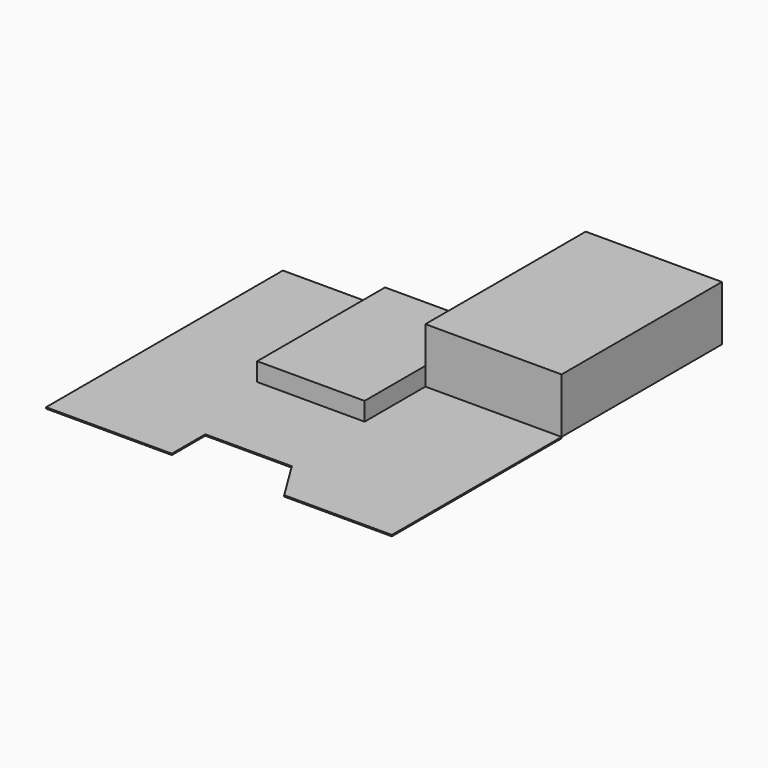
from build123d import *

# Parameters (mm, degrees)
F1_W     = 2050
F1_H     = 3050
F2_DEPTH = 350
F3_W     = 2600
F3_H     = 3825.0252531694
F4_DEPTH = 1050
F6_DEPTH = 25


with BuildPart() as f2:
    # F1 (on Top) → F2 (new body)
    with BuildSketch(Plane.XY):
        with Locations((2975, -7645)):
            Rectangle(F1_W, F1_H)
    extrude(amount=F2_DEPTH)

    # F3 (on Top) → F4 (join)
    with BuildSketch(Plane.XY):
        with Locations((5300, -5807.4873734153)):
            Rectangle(F3_W, F3_H)
    extrude(amount=F4_DEPTH)

    # F5 (on Top) → F6 (join)
    with BuildSketch(Plane.XY):
        Polygon((1950, -6120), (0, -6120), (0, -11770), (2400, -11770), (2400, -10970), (4050, -10970), (4545.2380952381, -11770), (6600, -11770), (6600, -7720), (4000, -7720), (4000, -9170), (1950, -9170), align=None)
    extrude(amount=-F6_DEPTH)


solid = f2.part
